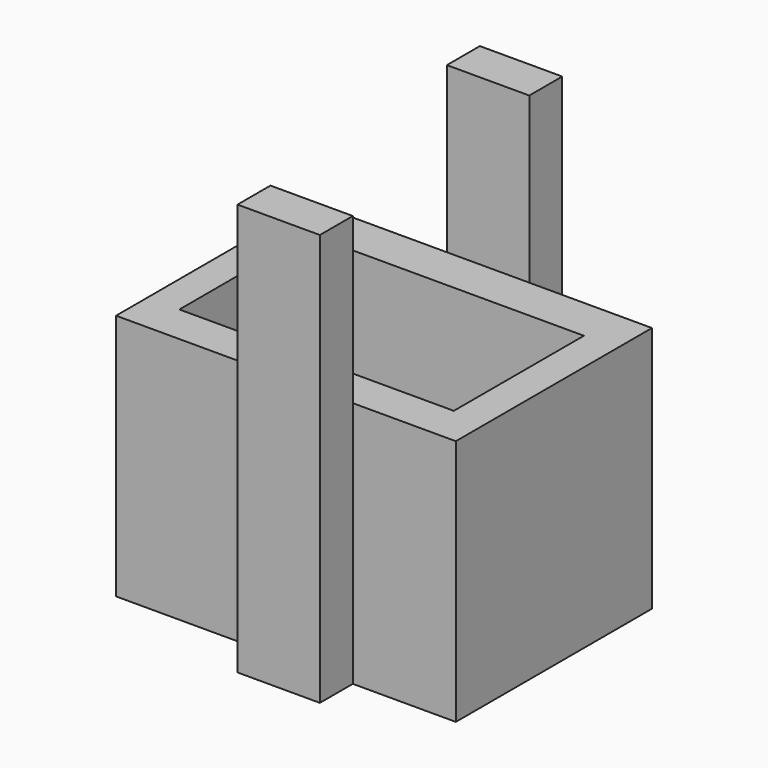
from build123d import *

# Parameters (mm, degrees)
F0_W     = 104.771569
F0_H     = 75.58772
F1_DEPTH = 76.2
F2_W     = 84.611864
F2_H     = 50.140363
F3_DEPTH = 50.8
F4_W     = 25.4
F4_H     = 127
F5_DEPTH = 12.7
F6_W     = 25.4
F6_H     = 127
F7_DEPTH = 12.7


with BuildPart() as f1:
    # F0 (on Top) → F1 (new body)
    with BuildSketch(Plane.XY):
        with Locations((52.385784, 37.79386)):
            Rectangle(F0_W, F0_H)
    extrude(amount=F1_DEPTH)

    # F2 (on face) → F3 (cut)
    with BuildSketch(Plane.XY.offset(76.2)):
        with Locations((52.194364, 37.128242)):
            Rectangle(F2_W, F2_H)
    extrude(amount=-F3_DEPTH, mode=Mode.SUBTRACT)

    # F4 (on face) → F5 (join)
    with BuildSketch(Plane.XZ):
        with Locations((60.309702, 63.5)):
            Rectangle(F4_W, F4_H)
    extrude(amount=F5_DEPTH)

    # F6 (on face) → F7 (join)
    with BuildSketch(Plane(origin=(0, 75.58772, 0), x_dir=(-1, 0, 0), z_dir=(0, 1, 0))):
        with Locations((-54.248451, 63.5)):
            Rectangle(F6_W, F6_H)
    extrude(amount=F7_DEPTH)


solid = f1.part
